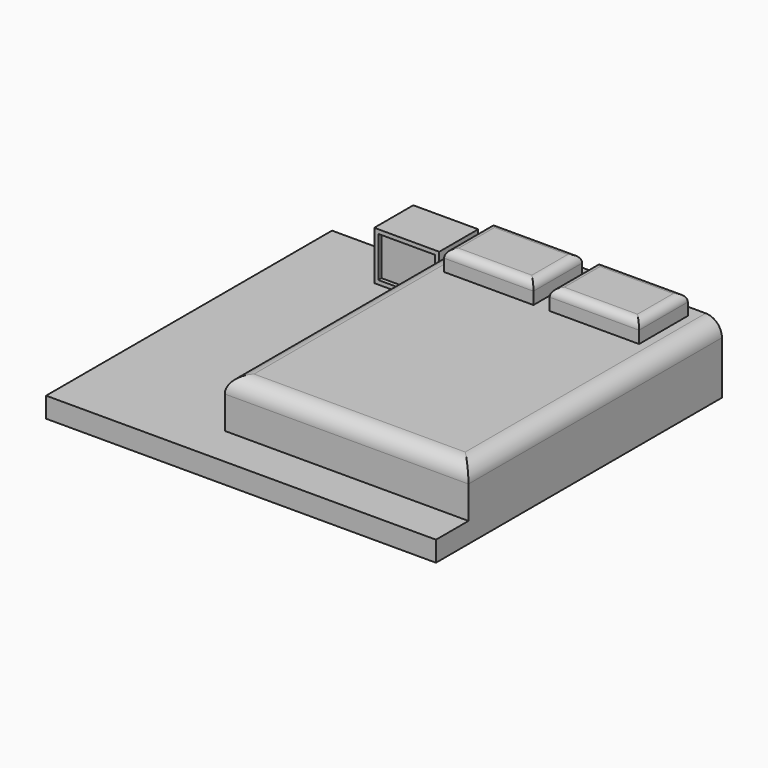
from build123d import *

# Parameters (mm, degrees)
F0_W      = 2438.4
F0_H      = 2235.2
F1_DEPTH  = 127
F2_W      = 1524
F2_H      = 1981.2
F3_DEPTH  = 304.8
F4_R      = 101.6
F5_W      = 558.8
F5_H      = 381
F6_DEPTH  = 127
F7_R      = 50.8
F8_W      = 406.4
F8_H      = 304.8
F9_DEPTH  = 304.8
F11_DEPTH = 25.4


with BuildPart() as f1:
    # F0 (on Top) → F1 (new body)
    with BuildSketch(Plane.XY):
        with Locations((-1219.2, 1117.6)):
            Rectangle(F0_W, F0_H)
    extrude(amount=F1_DEPTH)

    # F2 (on face) → F3 (join)
    with BuildSketch(Plane.XY.offset(127)):
        with Locations((-762, 1244.6)):
            Rectangle(F2_W, F2_H)
    extrude(amount=F3_DEPTH)

    # F4
    f4_edges = [f1.edges().sort_by_distance(p)[0] for p in [
        (-1524, 1244.6, 431.8),
        (-762, 254, 431.8),
        (0, 1244.6, 431.8),
    ]]
    fillet(f4_edges, radius=F4_R)

    # F5 (on face) → F6 (join)
    with BuildSketch(Plane.XY.offset(431.8)):
        with Locations((-431.8, 1968.5)):
            Rectangle(F5_W, F5_H)
        with Locations((-1092.2, 1968.5)):
            Rectangle(F5_W, F5_H)
    extrude(amount=F6_DEPTH)

    # F7
    f7_edges = [f1.edges().sort_by_distance(p)[0] for p in [
        (-1092.2, 2159, 558.8),
        (-1371.6, 1968.5, 558.8),
        (-1092.2, 1778, 558.8),
        (-812.8, 1968.5, 558.8),
        (-431.8, 2159, 558.8),
        (-711.2, 1968.5, 558.8),
        (-431.8, 1778, 558.8),
        (-152.4, 1968.5, 558.8),
    ]]
    fillet(f7_edges, radius=F7_R)

    # F8 (on face) → F9 (join)
    with BuildSketch(Plane.XY.offset(127)):
        with Locations((-1727.2, 2082.8)):
            Rectangle(F8_W, F8_H)
    extrude(amount=F9_DEPTH)

    # F10 (on face) → F11 (cut)
    with BuildSketch(Plane.XZ.offset(-1930.4)):
        Polygon((-1905, 152.4), (-1549.4, 152.4), (-1549.4, 355.6), (-1549.4, 406.4), (-1905, 406.4), align=None)
    extrude(amount=-F11_DEPTH, mode=Mode.SUBTRACT)


solid = f1.part
